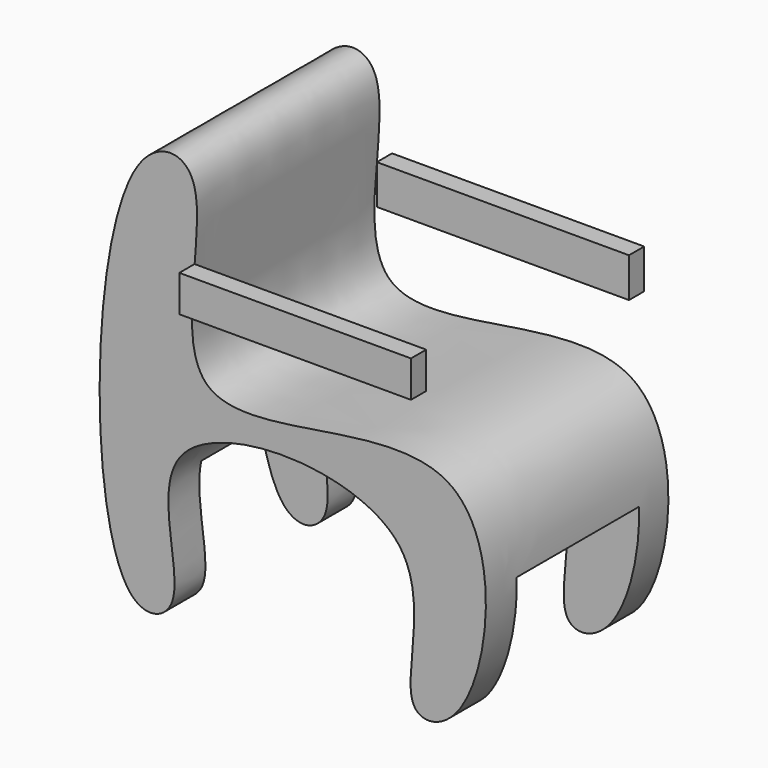
from build123d import *

# Parameters (mm, degrees)
F2_DEPTH      = 60
F1_W          = 40.20081833
F1_H          = 36.718855612
F3_DEPTH      = 38.7051039018
F3_DEPTH_BACK = 80
F4_W          = 60.9084924487
F4_H          = 9.5844385631
F5_DEPTH      = 5
F6_W          = 66.2949876015
F6_H          = 10.3768850105
F7_DEPTH      = 5


with BuildPart() as f2:
    # F0 (on Front) → F2 (new body)
    with BuildSketch(Plane.XZ):
        with BuildLine():
            add(Edge.make_bspline(
                [(-52.3876808584, 55.0782866776), (-47.4870996695, 61.862680449), (-28.7649561996, 61.1843965172), (-54.982199213, -15.144888363), (46.700920385, 33.7049684141), (38.467057912, -48.6776065351), (12.1169718889, -51.3548676731), (33.9117135351, 2.3086509732), (-59.7231290492, 3.7361184525), (-36.1848105031, -45.3567385329), (-66.5876674439, -54.4195541787), (-65.5278279706, 36.8869887913), (-52.3876808584, 55.0782866776)],
                knots=[0, 0, 0, 0, 0.0602934332, 0.1705855797, 0.2990115245, 0.4156863916, 0.4706684017, 0.5679196784, 0.6897616542, 0.7851091337, 0.8383325258, 1, 1, 1, 1], degree=3))
        make_face()
    extrude(amount=F2_DEPTH)

    # F1 (on Right) → F3 (cut, two sides)
    with BuildSketch(Plane.YZ) as f3_sk:
        with Locations((-29.7549348325, -33.5534387268)):
            Rectangle(F1_W, F1_H)
    extrude(amount=F3_DEPTH, mode=Mode.SUBTRACT)
    extrude(f3_sk.sketch, amount=-F3_DEPTH_BACK, mode=Mode.SUBTRACT)


with BuildPart() as f5:
    # F4 (on face) → F5 (new body)
    with BuildSketch(Plane.XZ.offset(60)):
        with Locations((-7.4395784433, 31.7578998428)):
            Rectangle(F4_W, F4_H)
    extrude(amount=F5_DEPTH)


with BuildPart() as f7:
    # F6 (on face) → F7 (new body)
    with BuildSketch(Plane(origin=(0, 0, 0), x_dir=(-1, 0, 0), z_dir=(0, 1, 0))):
        with Locations((4.8156344022, 30.5422506379)):
            Rectangle(F6_W, F6_H)
    extrude(amount=F7_DEPTH)


solid = Compound([f2.part, f5.part, f7.part])
